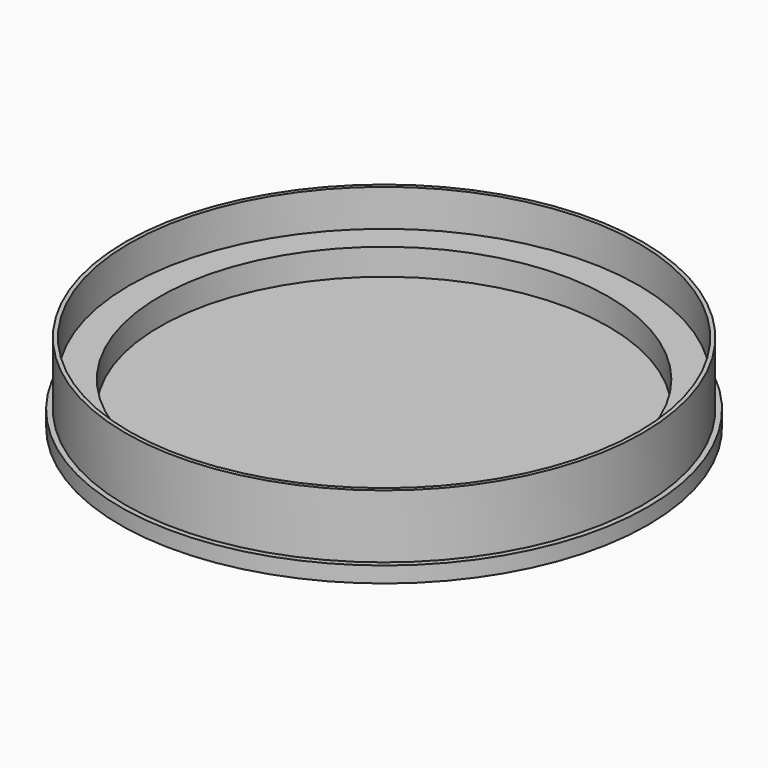
from build123d import *

# Parameters (mm, degrees)
F0_R     = 50
F1_DEPTH = 3
F2_R     = 49
F2_R_2   = 42.5
F3_DEPTH = 5
F4_R     = 49
F4_R_2   = 48.25
F5_DEPTH = 7


with BuildPart() as f1:
    # F0 (on Top) → F1 (new body)
    with BuildSketch(Plane.XY):
        Circle(F0_R)
    extrude(amount=F1_DEPTH)

    # F2 (on face) → F3 (join)
    with BuildSketch(Plane.XY.offset(3)):
        Circle(F2_R)
        Circle(F2_R_2, mode=Mode.SUBTRACT)
    extrude(amount=F3_DEPTH)

    # F4 (on face) → F5 (join)
    with BuildSketch(Plane.XY.offset(8)):
        Circle(F4_R)
        Circle(F4_R_2, mode=Mode.SUBTRACT)
    extrude(amount=F5_DEPTH)


solid = f1.part
